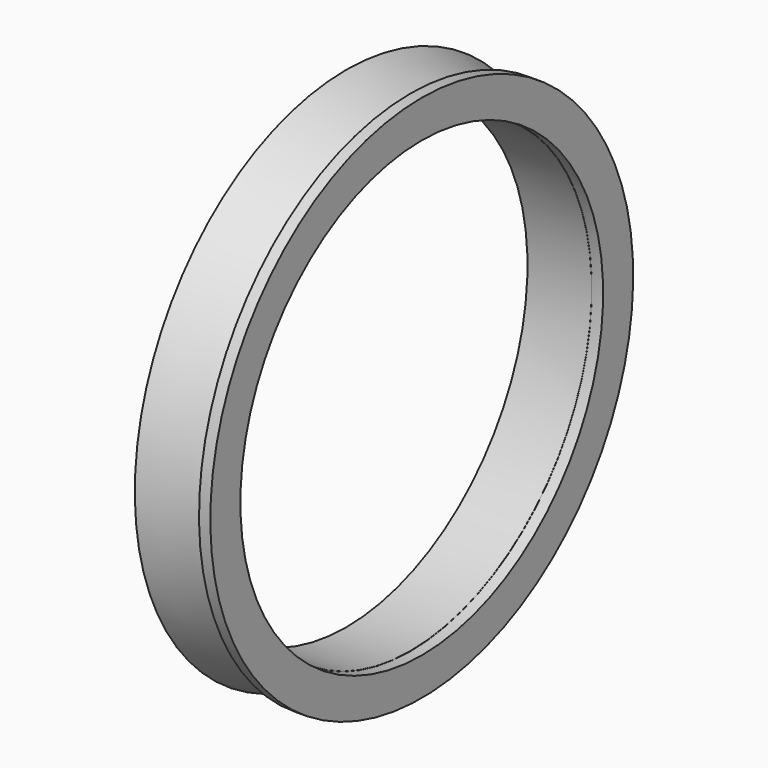
from build123d import *

# Parameters (mm, degrees)
F0_W = 3
F0_H = 9.95


with BuildPart() as f1:
    # F0 (on Front) → F1 (revolve)
    with BuildSketch(Plane.XZ):
        with Locations((0, 65.025)):
            Rectangle(F0_W, F0_H)
    revolve(axis=Axis((8.224491, 0, 0), (1, 0, 0)))

    # F2 (on Front) → F3 (revolve)
    with BuildSketch(Plane.XZ):
        Polygon((-5.044009, 65), (-18.5, 65), (-18.5, 60), (-1.5, 60), (-1.5, 65), (-18.5, 70), (-18.5, 68.957644), align=None)
    revolve(axis=Axis((3.221242, 0, 0), (1, 0, 0)))


solid = f1.part
